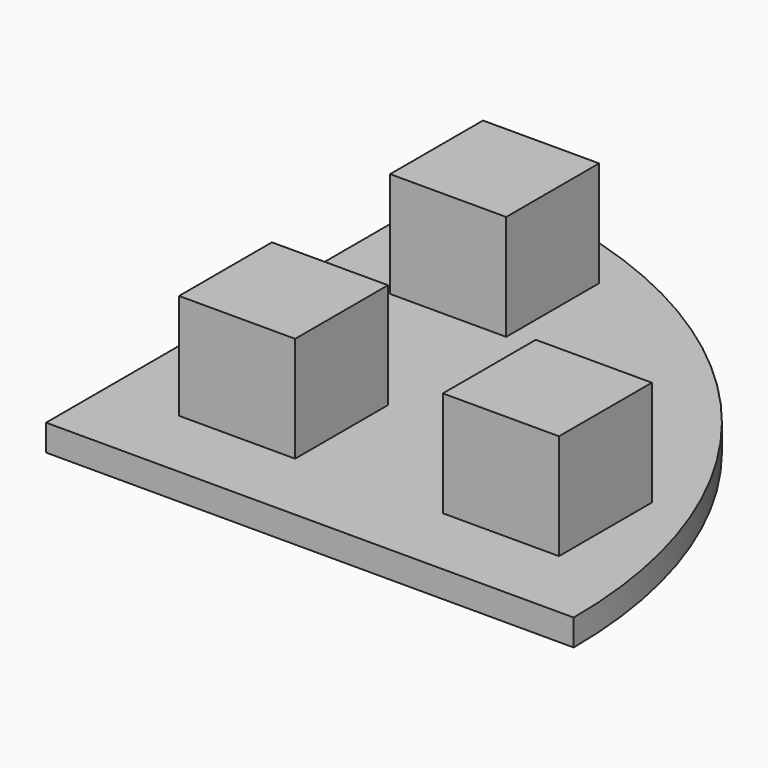
from build123d import *

# Parameters (mm, degrees)
BOX_W              = 10
BOX_H              = 10
BOX_DEPTH          = 10
SKETCH_W           = 4.4
SKETCH_H           = 4.4
PAD_DEPTH          = 4
PAD_FACE4_W        = 10
PAD_FACE4_H        = 10
POCKET_DEPTH       = 2.5
POCKET_FACE5_W     = 10
POCKET_FACE5_H     = 10
POCKET001_DEPTH    = 2.5
SKETCH001_W        = 5
SKETCH001_H        = 10
PAD001_DEPTH       = 10
SKETCH002_W        = 4.4
SKETCH002_H        = 4.4
PAD002_DEPTH       = 4
PAD002_FACE22_W    = 4.4
PAD002_FACE22_H    = 4.4
POCKET002_DEPTH    = 5
POCKET002_FACE16_W = 5
POCKET002_FACE16_H = 10
POCKET003_DEPTH    = 7.5
POCKET003_FACE15_W = 5
POCKET003_FACE15_H = 10
POCKET004_DEPTH    = 2.5
POCKET005_DEPTH    = 9
POCKET005_FACE8_W  = 5
POCKET005_FACE8_H  = 1
PAD003_DEPTH       = 10
PAD003_FACE3_W     = 2.5
PAD003_FACE3_H     = 1
PAD004_DEPTH       = 15
PAD004_FACE7_W     = 5
PAD004_FACE7_H     = 1
PAD005_DEPTH       = 15
PAD005_FACE8_W     = 2.5
PAD005_FACE8_H     = 1
PAD006_DEPTH       = 15
PAD006_FACE23_W    = 10
PAD006_FACE23_H    = 1
PAD007_DEPTH       = 15
SKETCH003_W        = 4.4
SKETCH003_H        = 4.4
PAD008_DEPTH       = 4
PAD008_FACE15_W    = 2.5
PAD008_FACE15_H    = 1
POCKET006_DEPTH    = 2.5
POCKET006_FACE20_W = 5
POCKET006_FACE20_H = 1
POCKET007_DEPTH    = 2.5
POCKET007_FACE27_W = 2.5
POCKET007_FACE27_H = 1
POCKET008_DEPTH    = 2.5
POCKET008_FACE37_W = 10
POCKET008_FACE37_H = 1
POCKET009_DEPTH    = 2.5
POCKET009_FACE5_W  = 10
POCKET009_FACE5_H  = 1
PAD009_DEPTH       = 2.5
PAD009_FACE29_W    = 10
PAD009_FACE29_H    = 1
PAD010_DEPTH       = 2.5
POCKET010_DEPTH    = 5


with BuildPart() as part:
    # Box → Box (new body)
    with BuildSketch(Plane.XY):
        with Locations((5, 5)):
            Rectangle(BOX_W, BOX_H)
    extrude(amount=BOX_DEPTH)

    # Sketch (on Face6 of BaseFeature) → Pad (new body)
    with BuildSketch(Plane.XY.offset(10)):
        with Locations((5, 5)):
            Rectangle(SKETCH_W, SKETCH_H)
    extrude(amount=PAD_DEPTH)

    # Pad Face4 → Pocket (cut)
    with BuildSketch(Plane(origin=(5, 10, 5), x_dir=(1, 0, 0), z_dir=(0, 1, 0))):
        Rectangle(PAD_FACE4_W, PAD_FACE4_H)
    extrude(amount=-POCKET_DEPTH, mode=Mode.SUBTRACT)

    # Pocket Face5 → Pocket001 (cut)
    with BuildSketch(Plane(origin=(5, 0, 5), x_dir=(-1, 0, 0), z_dir=(0, -1, 0))):
        Rectangle(POCKET_FACE5_W, POCKET_FACE5_H)
    extrude(amount=-POCKET001_DEPTH, mode=Mode.SUBTRACT)

    # Sketch001 (on Face3 of Pocket001) → Pad001 (join)
    with BuildSketch(Plane(origin=(0, 7.5, 0), x_dir=(-1, 0, 0), z_dir=(0, 1, 0))):
        with Locations((-5, 5)):
            Rectangle(SKETCH001_W, SKETCH001_H)
    extrude(amount=PAD001_DEPTH)

    # Sketch002 (on Face6 of Pad001) → Pad002 (join)
    with BuildSketch(Plane.XY.offset(10)):
        with Locations((5, 12.5)):
            Rectangle(SKETCH002_W, SKETCH002_H)
    extrude(amount=PAD002_DEPTH)

    # Pad002 Face22 → Pocket002 (cut)
    with BuildSketch(Plane(origin=(5, 12.5, 14), x_dir=(0, 1, 0), z_dir=(0, 0, 1))):
        Rectangle(PAD002_FACE22_W, PAD002_FACE22_H)
    extrude(amount=-POCKET002_DEPTH, mode=Mode.SUBTRACT)

    # Pocket002 Face16 → Pocket003 (cut)
    with BuildSketch(Plane(origin=(5, 17.5, 5), x_dir=(1, 0, 0), z_dir=(0, 1, 0))):
        Rectangle(POCKET002_FACE16_W, POCKET002_FACE16_H)
    extrude(amount=-POCKET003_DEPTH, mode=Mode.SUBTRACT)

    # Pocket003 Face15 → Pocket004 (cut)
    with BuildSketch(Plane(origin=(5, 10, 5), x_dir=(1, 0, 0), z_dir=(0, 1, 0))):
        Rectangle(POCKET003_FACE15_W, POCKET003_FACE15_H)
    extrude(amount=-POCKET004_DEPTH, mode=Mode.SUBTRACT)

    # Pocket004 Face4 → Pocket005 (cut)
    with BuildSketch(Plane(origin=(5, 5, 0), x_dir=(0, -1, 0), z_dir=(0, 0, -1))):
        Polygon((2.5, 5), (-2.5, 5), (-2.5, 2.5), (-2.5, -2.5), (-2.5, -5), (2.5, -5), align=None)
    extrude(amount=-POCKET005_DEPTH, mode=Mode.SUBTRACT)

    # Pocket005 Face8 → Pad003 (add)
    with BuildSketch(Plane(origin=(10, 5, 9.5), x_dir=(0, -1, 0), z_dir=(1, 0, 0))):
        Rectangle(POCKET005_FACE8_W, POCKET005_FACE8_H)
    extrude(amount=PAD003_DEPTH)

    # Pad003 Face3 → Pad004 (add)
    with BuildSketch(Plane(origin=(1.25, 7.5, 9.5), x_dir=(1, 0, 0), z_dir=(0, 1, 0))):
        Rectangle(PAD003_FACE3_W, PAD003_FACE3_H)
    extrude(amount=PAD004_DEPTH)

    # Pad004 Face7 → Pad005 (add)
    with BuildSketch(Plane(origin=(5, 7.5, 9.5), x_dir=(1, 0, 0), z_dir=(0, 1, 0))):
        Rectangle(PAD004_FACE7_W, PAD004_FACE7_H)
    extrude(amount=PAD005_DEPTH)

    # Pad005 Face8 → Pad006 (add)
    with BuildSketch(Plane(origin=(8.75, 7.5, 9.5), x_dir=(1, 0, 0), z_dir=(0, 1, 0))):
        Rectangle(PAD005_FACE8_W, PAD005_FACE8_H)
    extrude(amount=PAD006_DEPTH)

    # Pad006 Face23 → Pad007 (add)
    with BuildSketch(Plane(origin=(15, 7.5, 9.5), x_dir=(1, 0, 0), z_dir=(0, 1, 0))):
        Rectangle(PAD006_FACE23_W, PAD006_FACE23_H)
    extrude(amount=PAD007_DEPTH)

    # Sketch003 (on Face9 of Pad007) → Pad008 (join)
    with BuildSketch(Plane.XY.offset(10)):
        with Locations((5, 15)):
            Rectangle(SKETCH003_W, SKETCH003_H)
        with Locations((15, 5)):
            Rectangle(SKETCH003_W, SKETCH003_H)
    extrude(amount=PAD008_DEPTH)

    # Pad008 Face15 → Pocket006 (cut)
    with BuildSketch(Plane(origin=(1.25, 22.5, 9.5), x_dir=(1, 0, 0), z_dir=(0, 1, 0))):
        Rectangle(PAD008_FACE15_W, PAD008_FACE15_H)
    extrude(amount=-POCKET006_DEPTH, mode=Mode.SUBTRACT)

    # Pocket006 Face20 → Pocket007 (cut)
    with BuildSketch(Plane(origin=(5, 22.5, 9.5), x_dir=(1, 0, 0), z_dir=(0, 1, 0))):
        Rectangle(POCKET006_FACE20_W, POCKET006_FACE20_H)
    extrude(amount=-POCKET007_DEPTH, mode=Mode.SUBTRACT)

    # Pocket007 Face27 → Pocket008 (cut)
    with BuildSketch(Plane(origin=(8.75, 22.5, 9.5), x_dir=(1, 0, 0), z_dir=(0, 1, 0))):
        Rectangle(POCKET007_FACE27_W, POCKET007_FACE27_H)
    extrude(amount=-POCKET008_DEPTH, mode=Mode.SUBTRACT)

    # Pocket008 Face37 → Pocket009 (cut)
    with BuildSketch(Plane(origin=(15, 22.5, 9.5), x_dir=(1, 0, 0), z_dir=(0, 1, 0))):
        Rectangle(POCKET008_FACE37_W, POCKET008_FACE37_H)
    extrude(amount=-POCKET009_DEPTH, mode=Mode.SUBTRACT)

    # Pocket009 Face5 → Pad009 (add)
    with BuildSketch(Plane(origin=(5, 2.5, 9.5), x_dir=(-1, 0, 0), z_dir=(0, -1, 0))):
        Rectangle(POCKET009_FACE5_W, POCKET009_FACE5_H)
    extrude(amount=PAD009_DEPTH)

    # Pad009 Face29 → Pad010 (add)
    with BuildSketch(Plane(origin=(15, 2.5, 9.5), x_dir=(-1, 0, 0), z_dir=(0, -1, 0))):
        Rectangle(PAD009_FACE29_W, PAD009_FACE29_H)
    extrude(amount=PAD010_DEPTH)

    # Sketch004 (on Face4 of Pad010) → Pocket010 (cut)
    with BuildSketch(Plane(origin=(0, 0, 9), x_dir=(1, 0, 0), z_dir=(0, 0, -1))):
        with BuildLine():
            ThreePointArc((-0.886172, -19.999824), (13.825198, -14.457891), (19.99786, 0.000176))
            Line((19.99786, 0.000176), (29.314018, -0.170935))
            Line((29.314018, -0.170935), (32.97797, -26.044666))
            Line((32.97797, -26.044666), (-1.074295, -29.619213))
            Line((-1.074295, -29.619213), (-0.886172, -19.999824))
        make_face()
    extrude(amount=-POCKET010_DEPTH, mode=Mode.SUBTRACT)


solid = part.part
